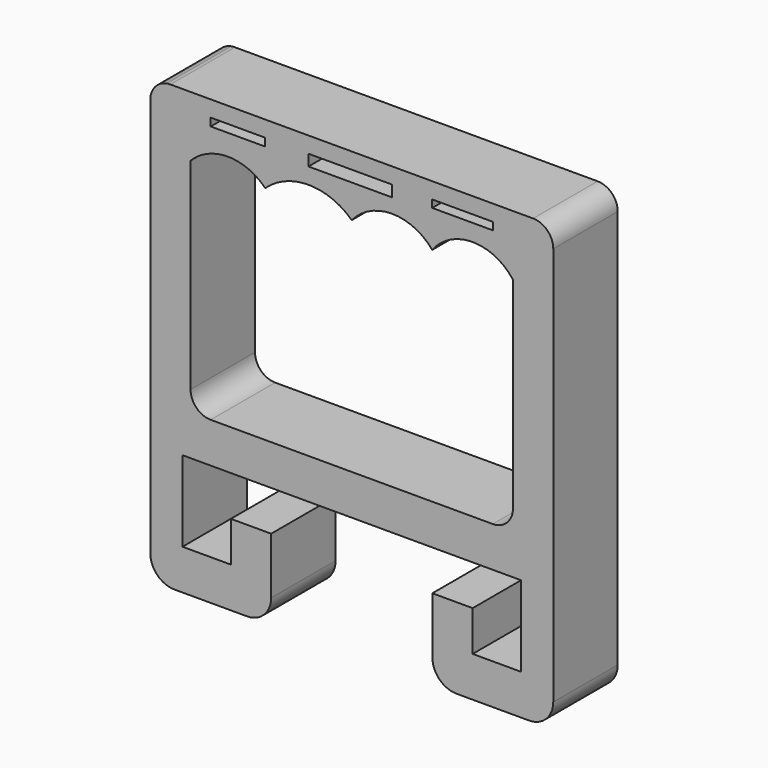
from build123d import *

# Parameters (mm, degrees)
F0_W     = 17.173829
F0_H     = 2.466835
F0_W_2   = 26.31853
F0_H_2   = 3.552243
F0_W_3   = 19.089112
F0_H_3   = 2.368163
F1_DEPTH = 25.4


with BuildPart() as f1:
    # F0 (on Front) → F1 (new body)
    with BuildSketch(Plane.XZ):
        with BuildLine():
            ThreePointArc((63.5, 44.45), (61.640128, 48.940128), (57.15, 50.8))
            Line((57.15, 50.8), (-57.15, 50.8))
            ThreePointArc((-57.15, 50.8), (-57.741245, 50.772415), (-58.327352, 50.689899))
            Line((-58.327352, 50.689899), (-58.327352, -39.201133))
            Line((-58.327352, -39.201133), (63.5, -39.201133))
            Line((63.5, -39.201133), (63.5, 44.45))
        make_face()
        with Locations((-35.863085, 44.513769)):
            Rectangle(F0_W, F0_H, mode=Mode.SUBTRACT)
        with Locations((-0.478821, 43.971065)):
            Rectangle(F0_W_2, F0_H_2, mode=Mode.SUBTRACT)
        with BuildLine():
            Line((-44.45, 38.1), (44.45, 38.1))
            ThreePointArc((44.45, 38.1), (48.940128, 36.240128), (50.8, 31.75))
            Line((50.8, 31.75), (50.8, -31.75))
            ThreePointArc((50.8, -31.75), (48.940128, -36.240128), (44.45, -38.1))
            Line((44.45, -38.1), (-44.45, -38.1))
            ThreePointArc((-44.45, -38.1), (-48.940128, -36.240128), (-50.8, -31.75))
            Line((-50.8, -31.75), (-50.8, 31.75))
            ThreePointArc((-50.8, 31.75), (-48.940128, 36.240128), (-44.45, 38.1))
        make_face(mode=Mode.SUBTRACT)
        with Locations((34.905444, 44.563105)):
            Rectangle(F0_W_3, F0_H_3, mode=Mode.SUBTRACT)
        with BuildLine():
            Line((-58.327352, -39.201133), (-58.327352, 50.689899))
            ThreePointArc((-58.327352, 50.689899), (-62.038696, 48.502549), (-63.5, 44.45))
            Line((-63.5, 44.45), (-63.5, -50.8))
            Line((-63.5, -50.8), (-58.327352, -39.201133))
        make_face()
        Polygon((63.5, -50.8), (63.5, -39.201133), (-58.327352, -39.201133), (-63.5, -50.8), (-53.34, -50.8), (53.34, -50.8), align=None)
        with BuildLine():
            Line((63.5, -81.28), (63.5, -50.8))
            Line((63.5, -50.8), (53.34, -50.8))
            Line((53.34, -50.8), (53.34, -76.2))
            Line((53.34, -76.2), (38.1, -76.2))
            Line((38.1, -76.2), (38.1, -63.5))
            Line((38.1, -63.5), (25.4, -63.5))
            Line((25.4, -63.5), (25.4, -81.28))
            ThreePointArc((25.4, -81.28), (27.631846, -86.668154), (33.02, -88.9))
            Line((33.02, -88.9), (55.88, -88.9))
            ThreePointArc((55.88, -88.9), (61.268154, -86.668154), (63.5, -81.28))
        make_face()
        with BuildLine():
            Line((-53.34, -50.8), (-63.5, -50.8))
            Line((-63.5, -50.8), (-63.5, -81.28))
            ThreePointArc((-63.5, -81.28), (-61.268154, -86.668154), (-55.88, -88.9))
            Line((-55.88, -88.9), (-33.02, -88.9))
            ThreePointArc((-33.02, -88.9), (-27.631846, -86.668154), (-25.4, -81.28))
            Line((-25.4, -81.28), (-25.4, -63.5))
            Line((-25.4, -63.5), (-38.1, -63.5))
            Line((-38.1, -63.5), (-38.1, -76.2))
            Line((-38.1, -76.2), (-53.34, -76.2))
            Line((-53.34, -76.2), (-53.34, -50.8))
        make_face()
        with BuildLine():
            ThreePointArc((50.8, 31.75), (48.940128, 36.240128), (44.45, 38.1))
            Line((44.45, 38.1), (-44.45, 38.1))
            ThreePointArc((-44.45, 38.1), (-48.940128, 36.240128), (-50.8, 31.75))
            ThreePointArc((-50.8, 31.75), (-39.038086, 36.683573), (-27.276171, 31.75))
            ThreePointArc((-27.276171, 31.75), (-13.638086, 37.127448), (0, 31.75))
            ThreePointArc((0, 31.75), (12.680444, 37.656782), (25.360888, 31.75))
            ThreePointArc((25.360888, 31.75), (38.080444, 38.073454), (50.8, 31.75))
        make_face()
    extrude(amount=F1_DEPTH)


solid = f1.part
